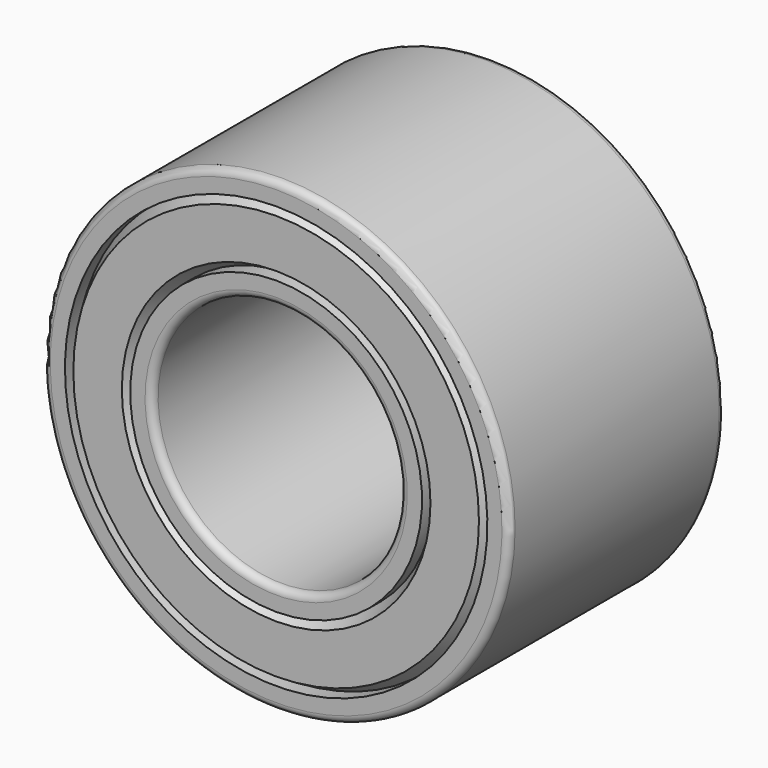
from build123d import *

# Parameters (mm, degrees)
F2_R = 1


with BuildPart() as f1:
    # F0 (on Right) → F1 (revolve)
    with BuildSketch(Plane.YZ):
        Polygon((0, 20.025598), (0, 17), (18.5, 17), (37, 17), (37, 20.025598), (35, 20.025598), (37, 21.180298), (37, 27.834261), (35, 28.988961), (37, 28.988961), (37, 32), (18.5, 32), (0, 32), (0, 28.988961), (2, 28.988961), (0, 27.834261), (0, 21.180298), (2, 20.025598), align=None)
    revolve(axis=Axis((0, 2.269987, 0), (0, 1, 0)))

    # F2
    f2_edges = [f1.edges().sort_by_distance(p)[0] for p in [
        (0, 37, -32),
        (0, 37, -17),
        (0, 18.5, 32),
        (0, 0, -32),
        (0, 0, -17),
    ]]
    fillet(f2_edges, radius=F2_R)


solid = f1.part
